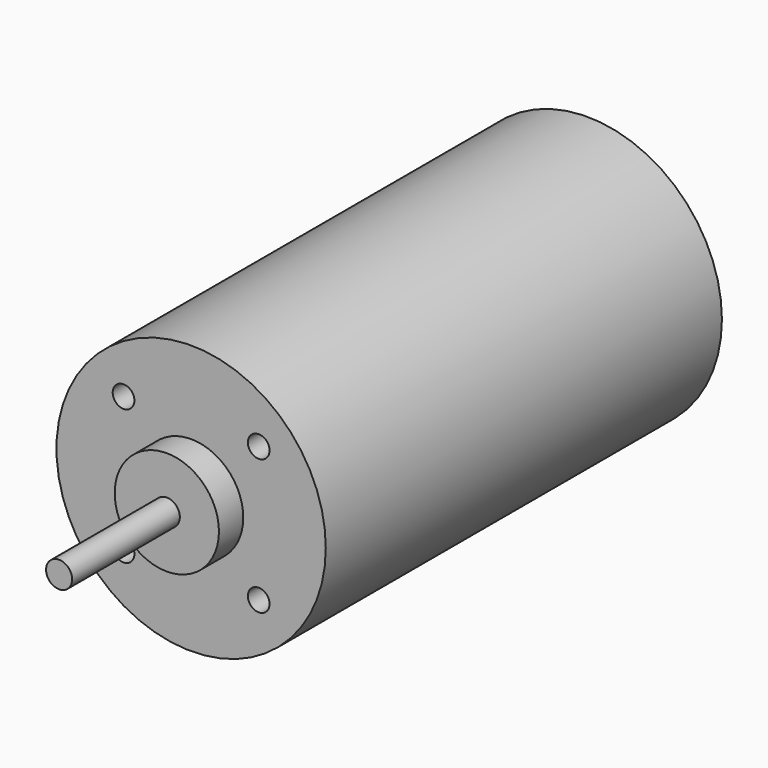
from build123d import *

# Parameters (mm, degrees)
F0_R     = 15.5
F1_DEPTH = 57
F2_R     = 6
F3_DEPTH = 3.5
F4_R     = 1.5
F5_DEPTH = 15.5
F6_D     = 2.5


with BuildPart() as f1:
    # F0 (on Front) → F1 (new body)
    with BuildSketch(Plane.XZ):
        Circle(F0_R)
    extrude(amount=F1_DEPTH)

    # F2 (on face) → F3 (join)
    with BuildSketch(Plane.XZ.offset(57)):
        Circle(F2_R)
    extrude(amount=F3_DEPTH)

    # F4 (on face) → F5 (join)
    with BuildSketch(Plane.XZ.offset(60.5)):
        Circle(F4_R)
    extrude(amount=F5_DEPTH)

    # F6 (through all)
    with Locations(Plane.XZ.offset(57)):
        with Locations((-7.7781745931, 7.7781745931), (7.7781745931, 7.7781745931), (7.7781745931, -7.7781745931), (-7.7781745931, -7.7781745931)):
            Hole(F6_D / 2)


solid = f1.part
